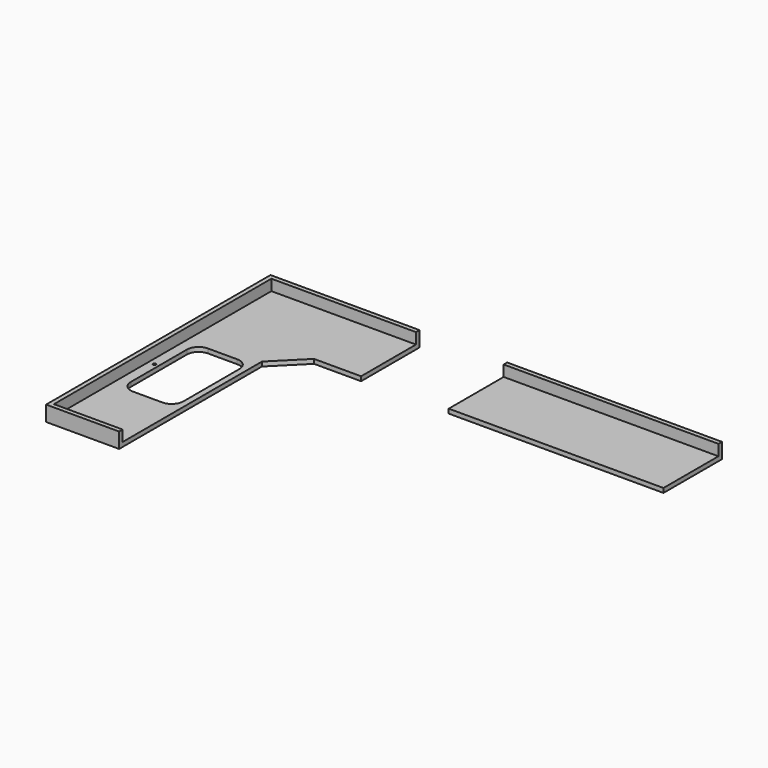
from build123d import *

# Parameters (mm, degrees)
F0_W          = 38.1
F0_H          = 635
F1_DEPTH      = 38.1
F2_DEPTH      = 876.3
F4_DEPTH      = 95.25
F5_W          = 762
F5_H          = 807.1839261055
F6_DEPTH      = 203.2
F6_DEPTH_BACK = 203.2
F7_R          = 12.7
F8_DEPTH      = 127
F9_DEPTH      = 127


with BuildPart() as f1:
    # F0 (on Top) → F1 (new body)
    with BuildSketch(Plane.XY):
        Polygon((1943.1, -317.5), (1943.1, 317.5), (-1943.1, 317.5), (-1943.1, -317.5), (-1308.1, -317.5), (-1056.6528286101, -317.5), align=None)
        Polygon((-1308.1, -317.5), (-1943.1, -317.5), (-1943.1, -2120.9), (-1308.1, -2120.9), (-1308.1, -568.9471713899), align=None)
        with Locations((1962.15, 0)):
            Rectangle(F0_W, F0_H)
        Polygon((-1308.1, -568.9471713899), (-1056.6528286101, -317.5), (-1308.1, -317.5), align=None)
    extrude(amount=F1_DEPTH)

    # F0 (on Top) → F2 (join)
    with BuildSketch(Plane.XY):
        with Locations((1962.15, 0)):
            Rectangle(F0_W, F0_H)
    extrude(amount=-F2_DEPTH)

    # F3 (on face) → F4 (join)
    with BuildSketch(Plane.XY.offset(38.1)):
        Polygon((-1943.1, 279.4), (-1943.1, -2120.9), (-1905, -2120.9), (-1308.1, -2120.9), (-1308.1, -2082.8), (-1905, -2082.8), (-1905, 279.4), (1981.2, 279.4), (1981.2, 317.5), (-1905, 317.5), (-1943.1, 317.5), align=None)
    extrude(amount=F4_DEPTH)

    # F5 (on face) → F6 (cut, two sides)
    with BuildSketch(Plane.XY.offset(38.1)) as f6_sk:
        with Locations((-266.7, 86.0919630527)):
            Rectangle(F5_W, F5_H)
    extrude(amount=-F6_DEPTH, mode=Mode.SUBTRACT)
    extrude(f6_sk.sketch, amount=F6_DEPTH_BACK, mode=Mode.SUBTRACT)

    # F7 (on face) → F8 (cut)
    with BuildSketch(Plane.XY.offset(38.1)):
        with BuildLine():
            ThreePointArc((-1358.9, -749.3), (-1388.6579510314, -677.4579510314), (-1460.5, -647.7))
            Line((-1460.5, -647.7), (-1714.5, -647.7))
            ThreePointArc((-1714.5, -647.7), (-1786.3420489686, -677.4579510314), (-1816.1, -749.3))
            Line((-1816.1, -749.3), (-1816.1, -1358.9))
            ThreePointArc((-1816.1, -1358.9), (-1786.3420489686, -1430.7420489686), (-1714.5, -1460.5))
            Line((-1714.5, -1460.5), (-1460.5, -1460.5))
            ThreePointArc((-1460.5, -1460.5), (-1388.6579510314, -1430.7420489686), (-1358.9, -1358.9))
            Line((-1358.9, -1358.9), (-1358.9, -749.3))
        make_face()
        with Locations((-1854.2, -1054.1)):
            Circle(F7_R)
    extrude(amount=-F8_DEPTH, mode=Mode.SUBTRACT)

    # F9 (cut): a face of the model
    f9_faces = [f1.faces().sort_by_distance(p)[0] for p in [
        (1943.1, 0, -438.15),
    ]]
    extrude(f9_faces, amount=-F9_DEPTH, mode=Mode.SUBTRACT)


solid = f1.part
